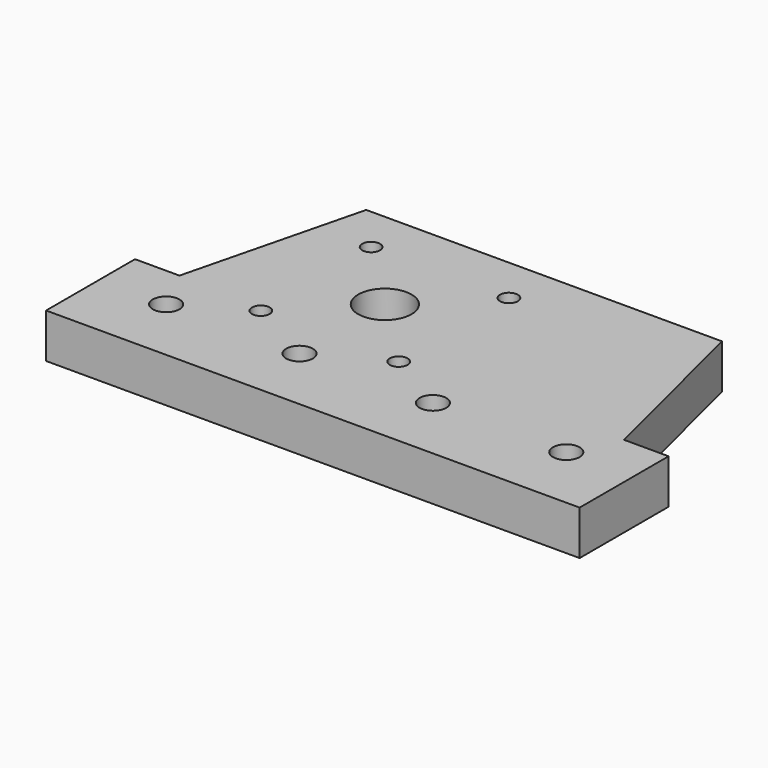
from build123d import *

# Parameters (mm, degrees)
F1_DEPTH = 10
F2_R     = 6
F2_R_2   = 2
F3_DEPTH = 25
F4_R     = 3
F5_DEPTH = 24.5


with BuildPart() as f1:
    # F0 (on Top) → F1 (new body)
    with BuildSketch(Plane.XY):
        Polygon((-60, -40), (-60, -65), (60, -65), (60, -40), (50, -40), (40, 0), (-40, 0), (-50, -40), align=None)
    extrude(amount=F1_DEPTH)

    # F2 (on Top) → F3 (cut)
    with BuildSketch(Plane.XY):
        with Locations((-15, -26)):
            Circle(F2_R)
        with Locations((-30.5, -10.5)):
            Circle(F2_R_2)
        with Locations((0.5, -10.5)):
            Circle(F2_R_2)
        with Locations((-30.5, -41.5)):
            Circle(F2_R_2)
        with Locations((0.5, -41.5)):
            Circle(F2_R_2)
    extrude(amount=F3_DEPTH, mode=Mode.SUBTRACT)

    # F4 (on Top) → F5 (cut)
    with BuildSketch(Plane.XY):
        with Locations((-45, -50)):
            Circle(F4_R)
        with Locations((-15, -50)):
            Circle(F4_R)
        with Locations((45, -50)):
            Circle(F4_R)
        with Locations((15, -50)):
            Circle(F4_R)
    extrude(amount=F5_DEPTH, mode=Mode.SUBTRACT)


solid = f1.part
